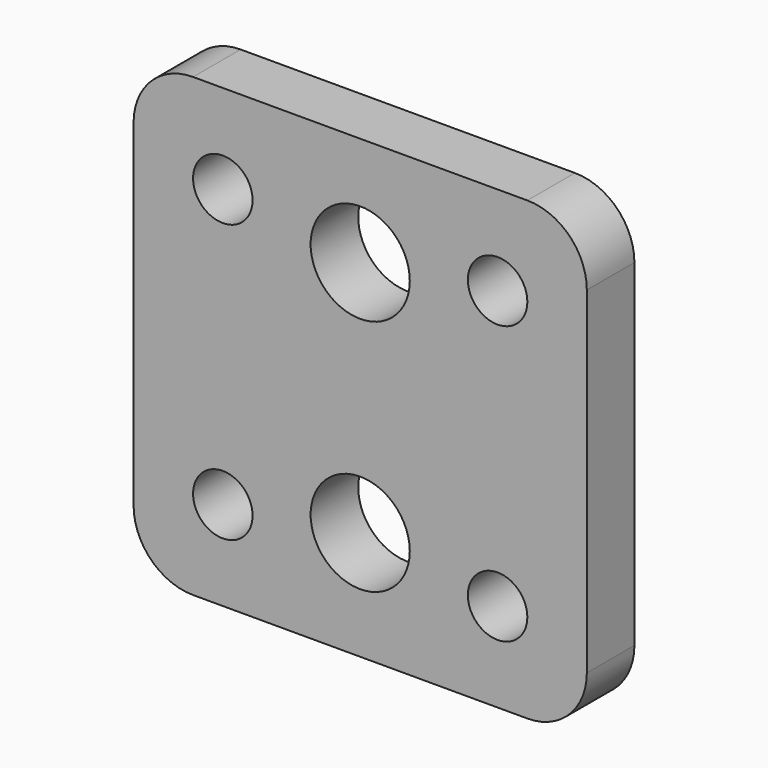
from build123d import *

# Parameters (mm, degrees)
F0_R     = 1.5
F0_R_2   = 2.5
F1_DEPTH = 3


with BuildPart() as f1:
    # F0 (on Front) → F1 (new body)
    with BuildSketch(Plane.XZ):
        with BuildLine():
            ThreePointArc((-11.428203, -8.5), (-10.549524, -10.62132), (-8.428203, -11.5))
            Line((-8.428203, -11.5), (8.428203, -11.5))
            ThreePointArc((8.428203, -11.5), (10.549524, -10.62132), (11.428203, -8.5))
            Line((11.428203, -8.5), (11.428203, 8.5))
            ThreePointArc((11.428203, 8.5), (10.549524, 10.62132), (8.428203, 11.5))
            Line((8.428203, 11.5), (-8.428203, 11.5))
            ThreePointArc((-8.428203, 11.5), (-10.549524, 10.62132), (-11.428203, 8.5))
            Line((-11.428203, 8.5), (-11.428203, -8.5))
        make_face()
        with Locations((-6.928203, -7)):
            Circle(F0_R, mode=Mode.SUBTRACT)
        with Locations((0, -6)):
            Circle(F0_R_2, mode=Mode.SUBTRACT)
        with Locations((6.928203, -7)):
            Circle(F0_R, mode=Mode.SUBTRACT)
        with Locations((-6.928203, 7)):
            Circle(F0_R, mode=Mode.SUBTRACT)
        with Locations((0, 6)):
            Circle(F0_R_2, mode=Mode.SUBTRACT)
        with Locations((6.928203, 7)):
            Circle(F0_R, mode=Mode.SUBTRACT)
    extrude(amount=F1_DEPTH)


solid = f1.part
